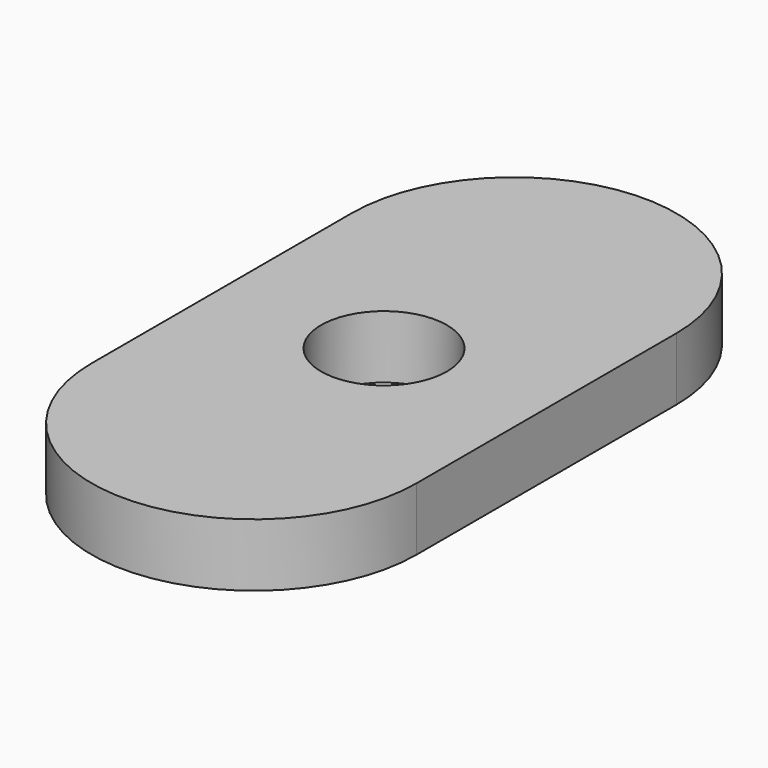
from build123d import *

# Parameters (mm, degrees)
F0_W     = 15.5
F0_H     = 15.5
F0_R     = 3
F1_DEPTH = 3


with BuildPart() as f1:
    # F0 (on Top) → F1 (new body)
    with BuildSketch(Plane.XY):
        with BuildLine():
            ThreePointArc((-7.75, -7.75), (0, -15.5), (7.75, -7.75))
            Line((7.75, -7.75), (-7.75, -7.75))
        make_face()
        Rectangle(F0_W, F0_H)
        Circle(F0_R, mode=Mode.SUBTRACT)
        with BuildLine():
            Line((-7.75, 7.75), (7.75, 7.75))
            ThreePointArc((7.75, 7.75), (0, 15.5), (-7.75, 7.75))
        make_face()
    extrude(amount=F1_DEPTH)


solid = f1.part
